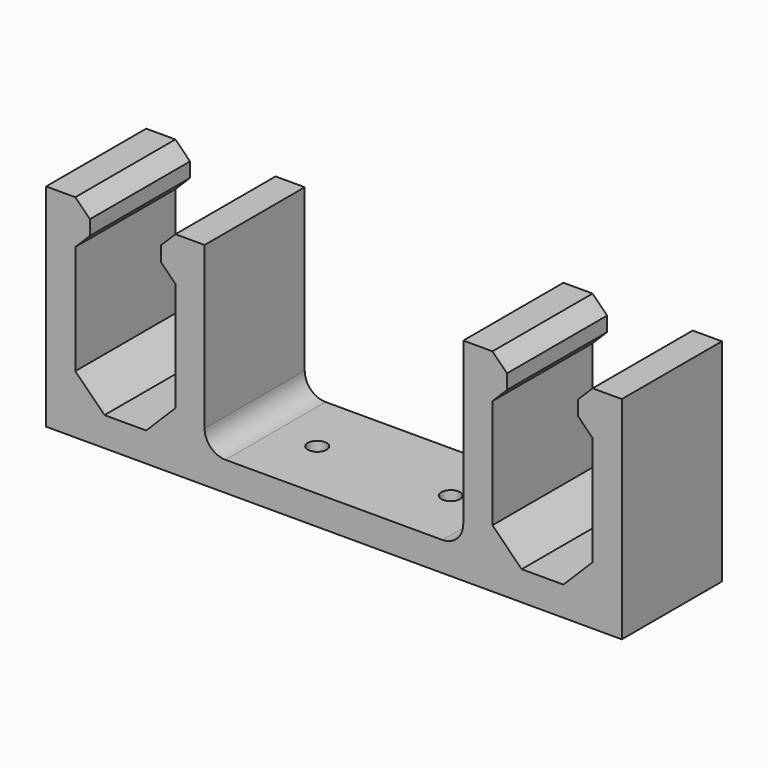
from build123d import *

# Parameters (mm, degrees)
F1_DEPTH = 30
F2_R     = 2.25
F3_DEPTH = 7


with BuildPart() as f1:
    # F0 (on Front) → F1 (new body)
    with BuildSketch(Plane.XZ):
        with BuildLine():
            Line((-12, -13.1), (-12, 13.1))
            Line((-12, 13.1), (-8.5, 16.6))
            Line((-8.5, 16.6), (-8.5, 20.1))
            Line((-8.5, 20.1), (-12, 23.6))
            Line((-12, 23.6), (-19, 23.6))
            Line((-19, 23.6), (-19, -27.1))
            Line((-19, -27.1), (0, -27.1))
            Line((0, -27.1), (19, -27.1))
            Line((19, -27.1), (81, -27.1))
            Line((81, -27.1), (100, -27.1))
            Line((100, -27.1), (119, -27.1))
            Line((119, -27.1), (119, 23.6))
            Line((119, 23.6), (112, 23.6))
            Line((112, 23.6), (108.5, 20.1))
            Line((108.5, 20.1), (108.5, 16.6))
            Line((108.5, 16.6), (112, 13.1))
            Line((112, 13.1), (112, -13.1))
            Line((112, -13.1), (105, -20.1))
            Line((105, -20.1), (95, -20.1))
            Line((95, -20.1), (88, -13.1))
            Line((88, -13.1), (88, 13.1))
            Line((88, 13.1), (91.5, 16.6))
            Line((91.5, 16.6), (91.5, 20.1))
            Line((91.5, 20.1), (88, 23.6))
            Line((88, 23.6), (81, 23.6))
            Line((81, 23.6), (81, -15.1))
            ThreePointArc((81, -15.1), (79.535534, -18.635534), (76, -20.1))
            Line((76, -20.1), (24, -20.1))
            ThreePointArc((24, -20.1), (20.464466, -18.635534), (19, -15.1))
            Line((19, -15.1), (19, 23.6))
            Line((19, 23.6), (12, 23.6))
            Line((12, 23.6), (8.5, 20.1))
            Line((8.5, 20.1), (8.5, 16.6))
            Line((8.5, 16.6), (12, 13.1))
            Line((12, 13.1), (12, -13.1))
            Line((12, -13.1), (5, -20.1))
            Line((5, -20.1), (-5, -20.1))
            Line((-5, -20.1), (-12, -13.1))
        make_face()
    extrude(amount=F1_DEPTH)

    # F2 (on face) → F3 (cut, through all)
    with BuildSketch(Plane.XY.offset(-20.1)):
        with Locations((34, -15)):
            Circle(F2_R)
        with Locations((66, -15)):
            Circle(F2_R)
    extrude(amount=-F3_DEPTH, mode=Mode.SUBTRACT)


solid = f1.part
